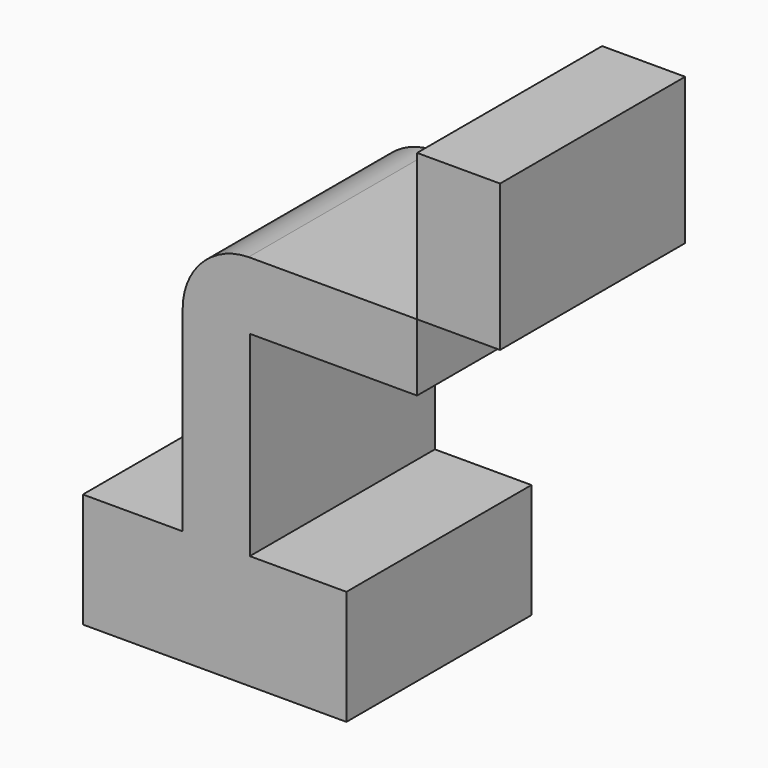
from build123d import *

# Parameters (mm, degrees)
F0_W     = 22.1214885292
F0_H     = 0.2682758373
F1_DEPTH = 76.2
F0_W_2   = 27.350206277
F0_H_2   = 48.2650607879


with BuildPart() as f1:
    # F0 (on Front) → F1 (new body)
    with BuildSketch(Plane.XZ):
        with Locations((-32.3793296038, -39.2825766405)):
            Rectangle(F0_W, F0_H)
        Polygon((-21.3185853392, -39.4167145592), (-43.4400738683, -39.4167145592), (-43.4400738683, -39.1484387219), (-76.3149112463, -39.1484387219), (-76.3149112463, -76.8789947033), (10.5108367279, -76.8789947033), (10.5108367279, -39.1484387219), (-21.3185853392, -39.1484387219), align=None)
        Polygon((-43.4400738683, 25.3389106147), (-43.4400738683, -39.1484387219), (-21.3185853392, -39.1484387219), (-21.3185853392, 25.3389106147), (-21.7207933825, 25.3389106147), align=None)
        with BuildLine():
            ThreePointArc((-21.7207933825, 47.4603974958), (-37.1026154006, 40.8396148459), (-43.4400738683, 25.3389106147))
            Line((-43.4400738683, 25.3389106147), (-21.7207933825, 25.3389106147))
            Line((-21.7207933825, 25.3389106147), (-21.7207933825, 47.4603974958))
        make_face()
        Polygon((-21.7207933825, 25.3389106147), (-21.3185853392, 25.3389106147), (33.7840253699, 25.3389106147), (33.7840253699, 47.4603974958), (-21.7207933825, 47.4603974958), align=None)
    extrude(amount=F1_DEPTH)


with BuildPart() as f1b:
    # F0 (on Front) → F1, piece 2 (new body)
    with BuildSketch(Plane.XZ):
        with Locations((47.4591285084, 71.5929278897)):
            Rectangle(F0_W_2, F0_H_2)
    extrude(amount=F1_DEPTH)


solid = Compound([f1.part, f1b.part])
